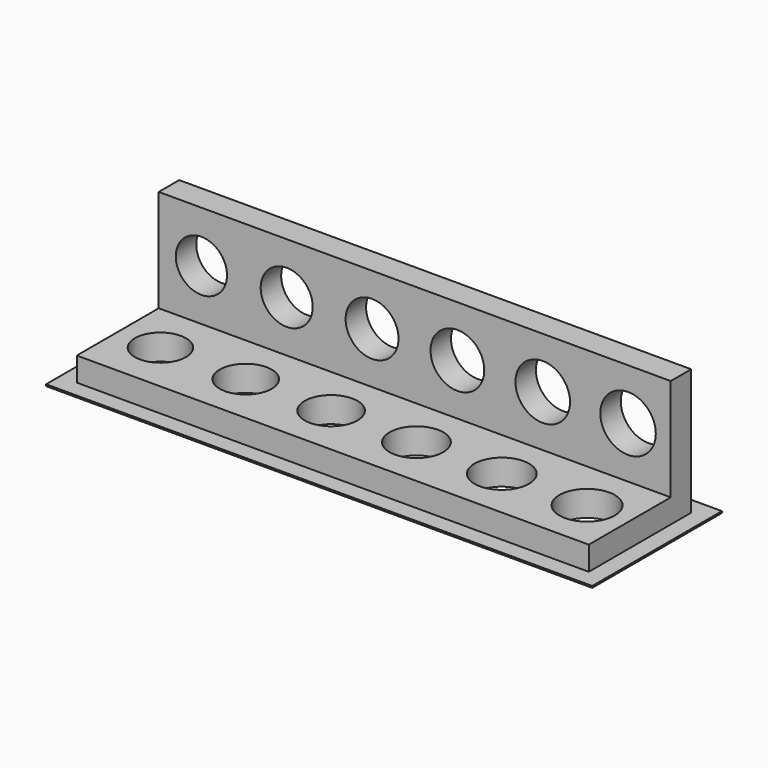
from build123d import *

# Parameters (mm, degrees)
F0_W     = 60
F0_H     = 15
F0_R     = 3
F0_R_2   = 3.05
F0_R_3   = 3.1
F0_R_4   = 3.15
F0_R_5   = 3.2
F0_R_6   = 3.25
F1_DEPTH = 3
F2_W     = 64
F2_H     = 19
F2_W_2   = 60
F2_H_2   = 15
F3_DEPTH = 0.2
F4_W     = 60
F4_H     = 3
F5_DEPTH = 12
F6_R     = 3
F6_R_2   = 3.05
F6_R_3   = 3.1
F6_R_4   = 3.15
F6_R_5   = 3.2
F6_R_6   = 3.25
F7_DEPTH = 3


with BuildPart() as f1:
    # F0 (on Top) → F1 (new body)
    with BuildSketch(Plane.XY):
        with Locations((30, 7.5)):
            Rectangle(F0_W, F0_H)
        with Locations((5, 6)):
            Circle(F0_R, mode=Mode.SUBTRACT)
        with Locations((15, 6)):
            Circle(F0_R_2, mode=Mode.SUBTRACT)
        with Locations((25, 6)):
            Circle(F0_R_3, mode=Mode.SUBTRACT)
        with Locations((35, 6)):
            Circle(F0_R_4, mode=Mode.SUBTRACT)
        with Locations((45, 6)):
            Circle(F0_R_5, mode=Mode.SUBTRACT)
        with Locations((55, 6)):
            Circle(F0_R_6, mode=Mode.SUBTRACT)
    extrude(amount=F1_DEPTH)

    # F2 (on Top) → F3 (join)
    with BuildSketch(Plane.XY):
        with Locations((30, 7.5)):
            Rectangle(F2_W, F2_H)
        with Locations((30, 7.5)):
            Rectangle(F2_W_2, F2_H_2, mode=Mode.SUBTRACT)
    extrude(amount=F3_DEPTH)

    # F4 (on face) → F5 (join)
    with BuildSketch(Plane.XY.offset(3)):
        with Locations((30, 13.5)):
            Rectangle(F4_W, F4_H)
    extrude(amount=F5_DEPTH)

    # F6 (on face) → F7 (cut, through all)
    with BuildSketch(Plane.XZ.offset(-12)):
        with Locations((5, 9)):
            Circle(F6_R)
        with Locations((15, 9)):
            Circle(F6_R_2)
        with Locations((25, 9)):
            Circle(F6_R_3)
        with Locations((35, 9)):
            Circle(F6_R_4)
        with Locations((45, 9)):
            Circle(F6_R_5)
        with Locations((55, 9)):
            Circle(F6_R_6)
    extrude(amount=-F7_DEPTH, mode=Mode.SUBTRACT)


solid = f1.part
